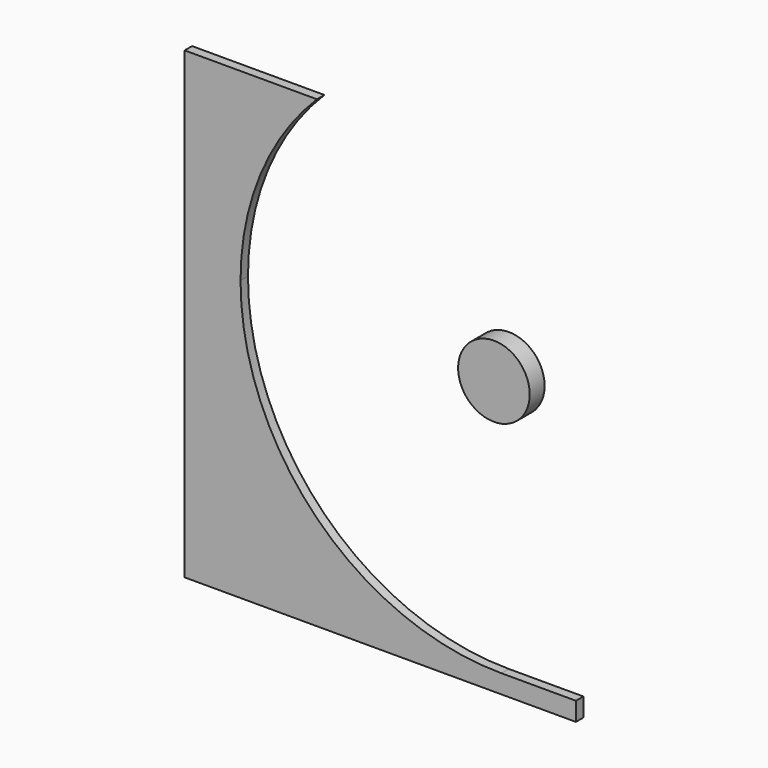
from build123d import *

# Parameters (mm, degrees)
F1_DEPTH = 6.35
F2_R     = 24.392404
F3_DEPTH = 12.7


with BuildPart() as f1:
    # F0 (on Front) → F1 (new body)
    with BuildSketch(Plane.XZ):
        with BuildLine():
            ThreePointArc((-177.8, 0), (-164.265781, 68.041114), (-125.723586, 125.723586))
            Line((-125.723586, 125.723586), (-215.9, 125.723586))
            Line((-215.9, 125.723586), (-215.9, 0))
            Line((-215.9, 0), (-177.8, 0))
        make_face()
        with BuildLine():
            Line((50.8, -177.8), (0, -177.8))
            ThreePointArc((0, -177.8), (-125.723586, -125.723586), (-177.8, 0))
            Line((-177.8, 0), (-215.9, 0))
            Line((-215.9, 0), (-215.9, -190.5))
            Line((-215.9, -190.5), (50.8, -190.5))
            Line((50.8, -190.5), (50.8, -177.8))
        make_face()
    extrude(amount=F1_DEPTH)


with BuildPart() as f3:
    # F2 (on Front) → F3 (new body)
    with BuildSketch(Plane.XZ):
        Circle(F2_R)
    extrude(amount=F3_DEPTH)


solid = Compound([f1.part, f3.part])
